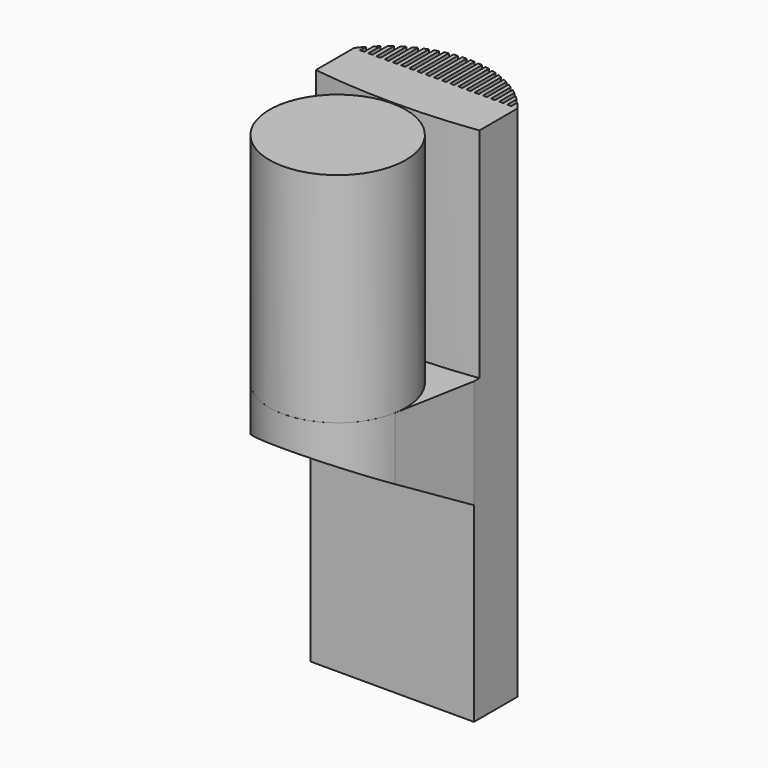
from build123d import *

# Parameters (mm, degrees)
F1_DEPTH  = 482.6
F2_W      = 3.81
F2_H      = 38.1
F3_DEPTH  = 482.6
F5_DEPTH  = 304.8
F6_W      = 138.08032
F6_H      = 203.2
F7_DEPTH  = 254
F8_R      = 63.5
F9_DEPTH  = 203.2
F11_DEPTH = 203.2


with BuildPart() as f1:
    # F0 (on Top) → F1 (new body)
    with BuildSketch(Plane.XY):
        with BuildLine():
            ThreePointArc((76.2, 50.8), (0, 88.9), (-76.2, 50.8))
            Line((-76.2, 50.8), (-76.2, 0))
            Line((-76.2, 0), (76.2, 0))
            Line((76.2, 0), (76.2, 50.8))
        make_face()
    extrude(amount=F1_DEPTH)

    # F2 (on face) → F3 (cut)
    with BuildSketch(Plane.XY.offset(482.6)):
        with Locations((0, 69.85)):
            Rectangle(F2_W, F2_H)
        with Locations((7.62, 69.85)):
            Rectangle(F2_W, F2_H)
        with Locations((15.24, 69.85)):
            Rectangle(F2_W, F2_H)
        with Locations((22.86, 69.85)):
            Rectangle(F2_W, F2_H)
        with Locations((30.48, 69.85)):
            Rectangle(F2_W, F2_H)
        with Locations((38.1, 69.85)):
            Rectangle(F2_W, F2_H)
        with Locations((45.72, 69.85)):
            Rectangle(F2_W, F2_H)
        with Locations((53.34, 69.85)):
            Rectangle(F2_W, F2_H)
        with Locations((60.96, 69.85)):
            Rectangle(F2_W, F2_H)
        with Locations((68.58, 69.85)):
            Rectangle(F2_W, F2_H)
        with Locations((-7.62, 69.85)):
            Rectangle(F2_W, F2_H)
        with Locations((-15.24, 69.85)):
            Rectangle(F2_W, F2_H)
        with Locations((-22.86, 69.85)):
            Rectangle(F2_W, F2_H)
        with Locations((-30.48, 69.85)):
            Rectangle(F2_W, F2_H)
        with Locations((-38.1, 69.85)):
            Rectangle(F2_W, F2_H)
        with Locations((-45.72, 69.85)):
            Rectangle(F2_W, F2_H)
        with Locations((-53.34, 69.85)):
            Rectangle(F2_W, F2_H)
        with Locations((-60.96, 69.85)):
            Rectangle(F2_W, F2_H)
        with Locations((-68.58, 69.85)):
            Rectangle(F2_W, F2_H)
    extrude(amount=-F3_DEPTH, mode=Mode.SUBTRACT)

    # F4 (on face) → F5 (join)
    with BuildSketch(Plane.XY.offset(482.6)):
        with BuildLine():
            ThreePointArc((0, 0), (-48.782051, -22.848291), (-62.459016, -74.95082))
            ThreePointArc((-62.459016, -74.95082), (0, -127), (62.459016, -74.95082))
            ThreePointArc((62.459016, -74.95082), (63.239219, -69.24902), (63.5, -63.5))
            ThreePointArc((63.5, -63.5), (44.901281, -18.598719), (0, 0))
        make_face()
        with BuildLine():
            Line((-76.2, 0), (-62.459016, -74.95082))
            ThreePointArc((-62.459016, -74.95082), (-48.782051, -22.848291), (0, 0))
            Line((0, 0), (-76.2, 0))
        make_face()
        with BuildLine():
            ThreePointArc((63.5, -63.5), (63.239219, -69.24902), (62.459016, -74.95082))
            Line((62.459016, -74.95082), (76.2, 0))
            Line((76.2, 0), (0, 0))
            ThreePointArc((0, 0), (44.901281, -18.598719), (63.5, -63.5))
        make_face()
    extrude(amount=-F5_DEPTH)

    # F6 (on face) → F7 (cut)
    with BuildSketch(Plane.YZ.offset(76.2)):
        Polygon((-138.08032, 177.8), (0, 177.8), (-138.08032, 257.52071), align=None)
        with Locations((-69.04016, 381)):
            Rectangle(F6_W, F6_H)
    extrude(amount=-F7_DEPTH, mode=Mode.SUBTRACT)

    # F10 (on face) → F11 (cut, through all)
    with BuildSketch(Plane.XY.offset(482.6)):
        with BuildLine():
            ThreePointArc((76.2, 6.35), (0, 1.27), (-76.2, 6.35))
            Line((-76.2, 6.35), (-76.2, 0))
            Line((-76.2, 0), (76.2, 0))
            Line((76.2, 0), (76.2, 6.35))
        make_face()
    extrude(amount=-F11_DEPTH, mode=Mode.SUBTRACT)


with BuildPart() as f9:
    # F8 (on face) → F9 (new body, through all)
    with BuildSketch(Plane.XY.offset(279.4)):
        with Locations((0, -63.5)):
            Circle(F8_R)
    extrude(amount=F9_DEPTH)


solid = Compound([f1.part, f9.part])
